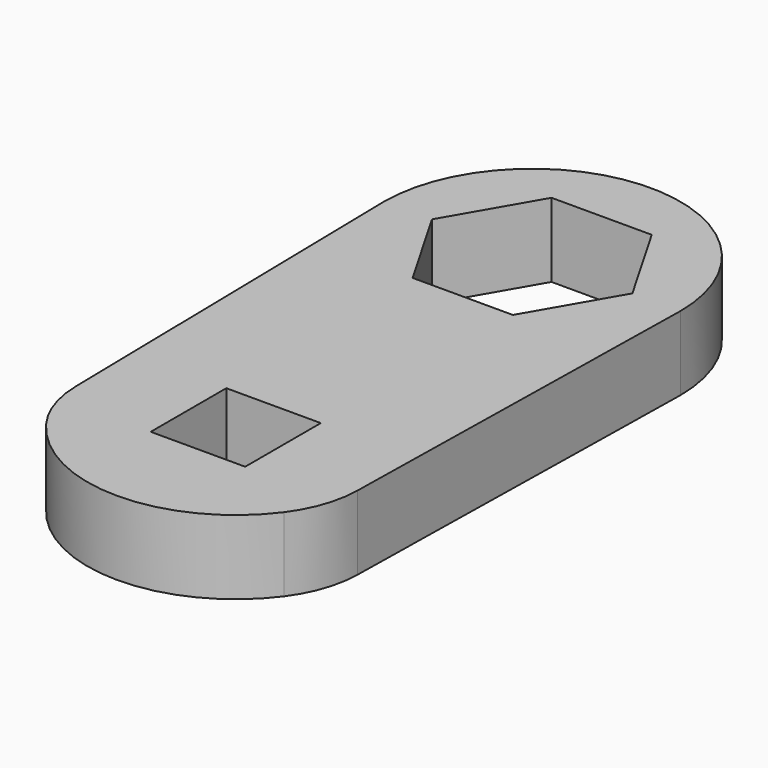
from build123d import *

# Parameters (mm, degrees)
SKETCH_W  = 12.75
SKETCH_H  = 12.75
PAD_DEPTH = 10
FILLET_R  = 15


with BuildPart() as part:
    # Sketch → Pad (new body)
    with BuildSketch(Plane.XY):
        with BuildLine():
            ThreePointArc((20, 0), (0, 20), (-20, 0))
            Line((-20, 0), (-18.956776, -56.375))
            ThreePointArc((-18.956776, -56.375), (0, -70), (18.956776, -56.375))
            Line((18.956776, -56.375), (20, 0))
        make_face()
        Polygon((-13.525, 0), (-6.7625, -11.712994), (6.7625, -11.712994), (13.525, 0), (6.7625, 11.712994), (-6.7625, 11.712994), align=None, mode=Mode.SUBTRACT)
        with Locations((0, -50)):
            Rectangle(SKETCH_W, SKETCH_H, mode=Mode.SUBTRACT)
    extrude(amount=PAD_DEPTH)

    # Fillet
    fillet_edges = [part.edges().sort_by_distance(p)[0] for p in [
        (-20, 0, 5),
        (-18.956776, -56.375, 5),
        (18.956776, -56.375, 5),
        (20, 0, 5),
    ]]
    fillet(fillet_edges, radius=FILLET_R)


solid = part.part
